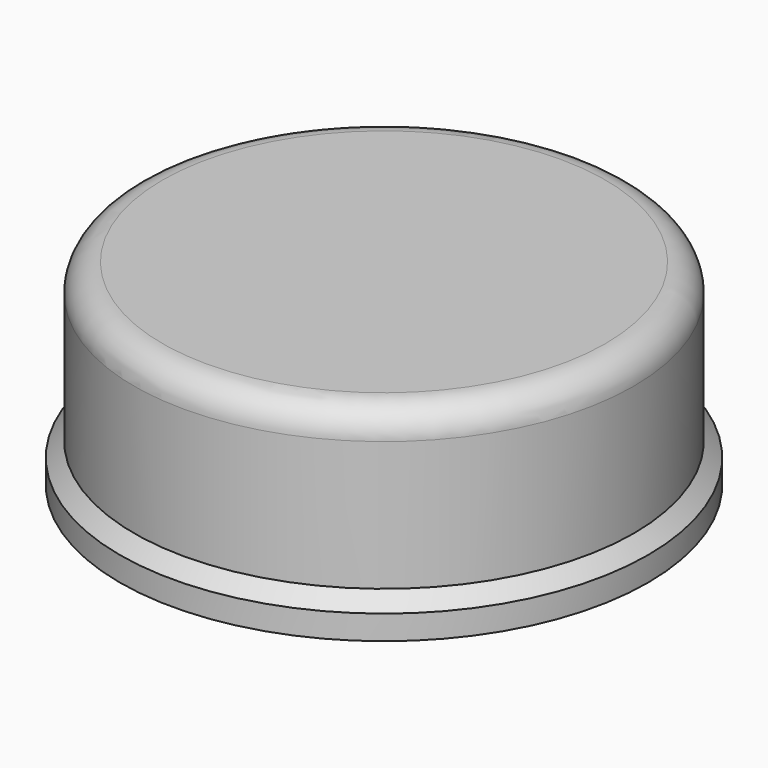
from build123d import *

# Parameters (mm, degrees)
F2_R = 2


with BuildPart() as f1:
    # F0 (on Front) → F1 (revolve)
    with BuildSketch(Plane.XZ):
        Polygon((17.658173, 7.978278), (1.658173, 7.978278), (0, 7.978278), (0, 6.885595), (1.502076, 6.885595), (16.409393, 6.885595), (16.409393, -5.914406), (18.672808, -5.914406), (18.672808, -4.197333), (17.658173, -3.182699), align=None)
    revolve(axis=Axis((0, 0, 7.431936), (0, 0, 1)))

    # F2
    f2_edges = [f1.edges().sort_by_distance(p)[0] for p in [
        (-17.658173, 0, 7.978278),
    ]]
    fillet(f2_edges, radius=F2_R)


solid = f1.part
